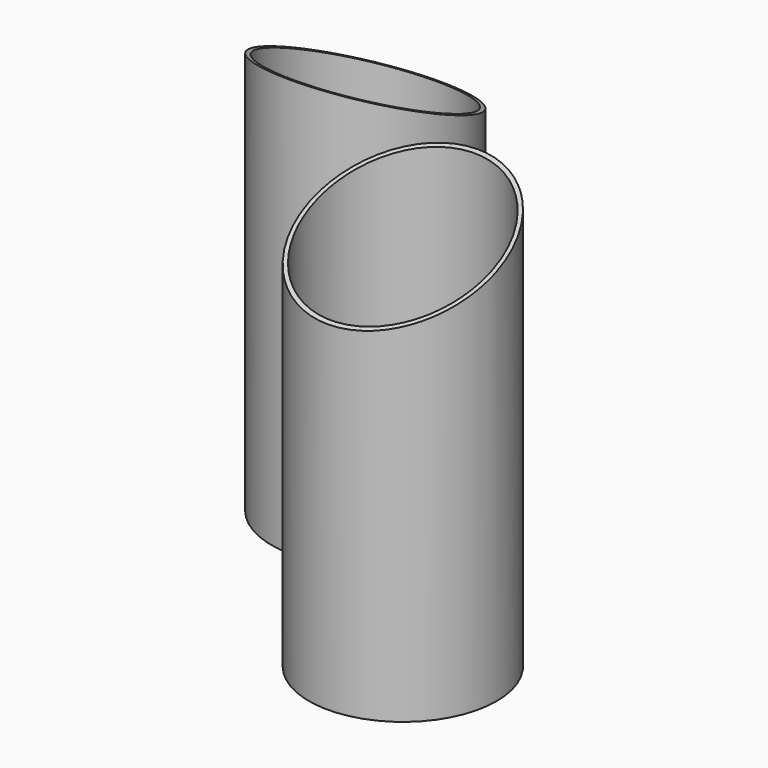
from build123d import *

# Parameters (mm, degrees)
F0_R     = 22.5
F0_R_2   = 21.5
F1_DEPTH = 100
F3_DEPTH = 100
F4_R     = 22.5
F4_R_2   = 21.5
F5_DEPTH = 100
F7_DEPTH = 100


with BuildPart() as f1:
    # F0 (on Top) → F1 (new body)
    with BuildSketch(Plane.XY):
        with Locations((-22.5, 22.5)):
            Circle(F0_R)
        with Locations((-22.5, 22.5)):
            Circle(F0_R_2, mode=Mode.SUBTRACT)
    extrude(amount=F1_DEPTH)

    # F2 (on Right) → F3 (cut)
    with BuildSketch(Plane.YZ):
        Polygon((0, 114.382386), (0, 100), (48.670089, 79.840189), (48.670089, 114.382386), align=None)
    extrude(amount=-F3_DEPTH, mode=Mode.SUBTRACT)


with BuildPart() as f5:
    # F4 (on Top) → F5 (new body)
    with BuildSketch(Plane.XY):
        with Locations((22.5, -22.5)):
            Circle(F4_R)
        with Locations((22.5, -22.5)):
            Circle(F4_R_2, mode=Mode.SUBTRACT)
    extrude(amount=F5_DEPTH)

    # F6 (on Right) → F7 (cut)
    with BuildSketch(Plane.YZ):
        Polygon((-57.519599, 76.174602), (0, 100), (0, 116.917327), (-57.519599, 116.917327), align=None)
    extrude(amount=F7_DEPTH, mode=Mode.SUBTRACT)


solid = Compound([f1.part, f5.part])
